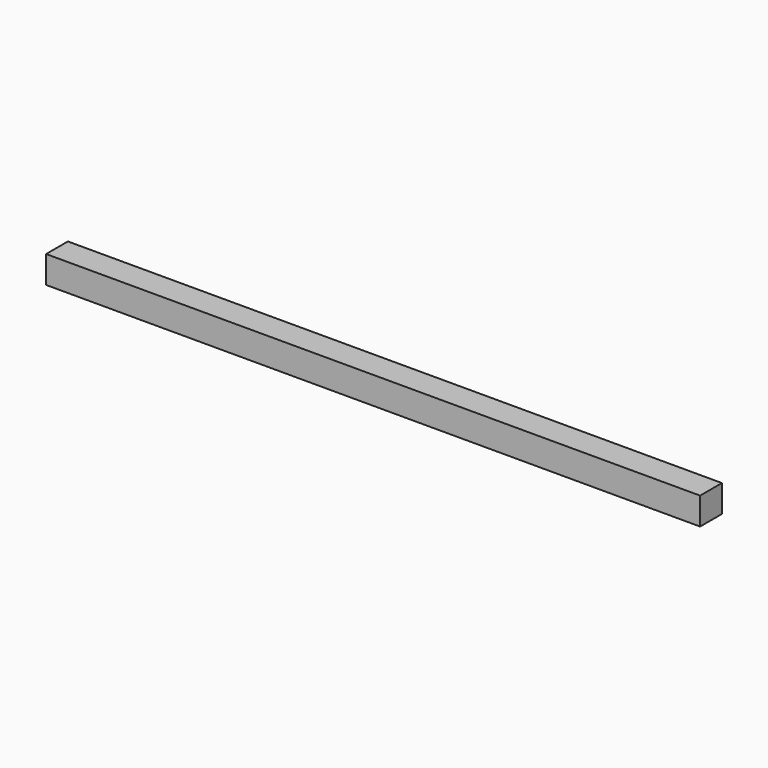
from build123d import *

# Parameters (mm, degrees)
SKETCH_W  = 480
SKETCH_H  = 20
PAD_DEPTH = 20


with BuildPart() as part:
    # Sketch → Pad (new body)
    with BuildSketch(Plane.XZ):
        Rectangle(SKETCH_W, SKETCH_H)
    extrude(amount=PAD_DEPTH)


solid = part.part
